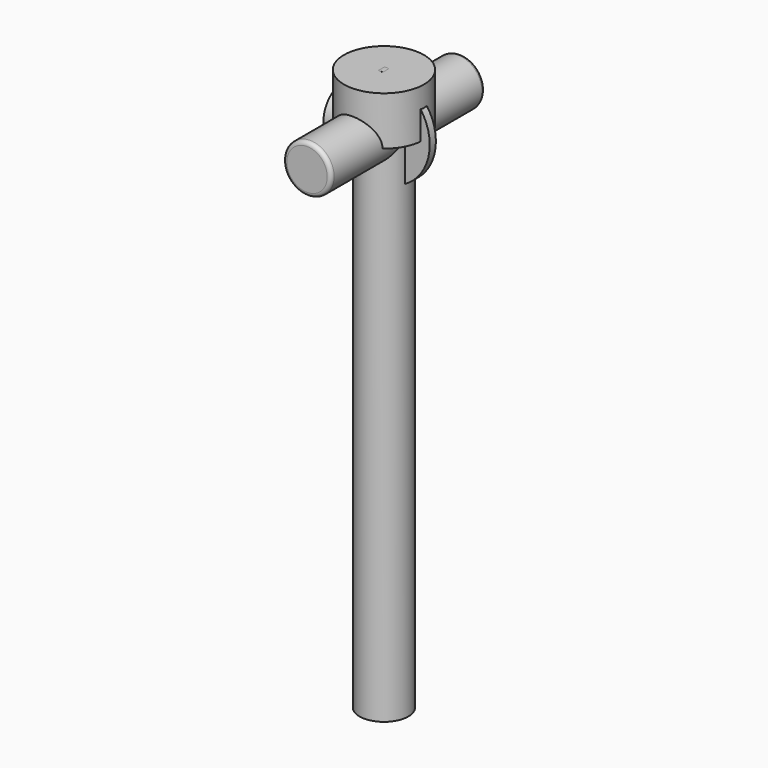
from build123d import *

# Parameters (mm, degrees)
F0_R          = 4.8387
F0_R_2        = 2.413
F1_DEPTH      = 0.381
F1_DEPTH_BACK = 0.381
F2_R          = 2.38125
F3_DEPTH      = 9.525
F3_DEPTH_BACK = 9.525
F4_R          = 0.381


with BuildPart() as f1:
    # F0 (on Front) → F1 (new body, two sides)
    with BuildSketch(Plane.XZ) as f1_sk:
        Circle(F0_R)
        Circle(F0_R_2, mode=Mode.SUBTRACT)
    extrude(amount=F1_DEPTH)
    extrude(f1_sk.sketch, amount=-F1_DEPTH_BACK)


with BuildPart() as f3:
    # F2 (on Front) → F3 (new body, two sides)
    with BuildSketch(Plane.XZ) as f3_sk:
        Circle(F2_R)
    extrude(amount=F3_DEPTH)
    extrude(f3_sk.sketch, amount=-F3_DEPTH_BACK)

    # F4
    f4_edges = [f3.edges().sort_by_distance(p)[0] for p in [
        (-2.38125, -9.525, 0),
        (-2.38125, 9.525, 0),
    ]]
    fillet(f4_edges, radius=F4_R)


with BuildPart() as f6:
    # F5 (on Front) → F6 (revolve)
    with BuildSketch(Plane.XZ):
        Polygon((-4.7625, 0), (-3.09665, 0), (-2.38125, 1.190625), (0, 1.190625), (0, 2.413), (-4.065927, 2.413), (-4.7625, 1.2065), align=None)
    revolve(axis=Axis((4.242493, 0, 0), (1, 0, 0)))


with BuildPart() as f8:
    # F7 (on Right) → F8 (revolve)
    with BuildSketch(Plane.YZ):
        Polygon((3.9624, 4.826), (0, 4.826), (0, -9.525), (2.413, -9.525), (2.413, 0), (3.9624, 0), align=None)
    revolve(axis=Axis((0, 0, -2.876519), (0, 0, -1)))


with BuildPart() as f10:
    # F9 (on Right) → F10 (revolve)
    with BuildSketch(Plane.YZ):
        Polygon((3.9624, 4.826), (0, 4.826), (0, -31.75), (2.413, -31.75), (2.413, 0), (3.9624, 0), align=None)
    revolve(axis=Axis((0, 0, -2.336647), (0, 0, -1)))


with BuildPart() as f12:
    # F11 (on Right) → F12 (revolve)
    with BuildSketch(Plane.YZ):
        Polygon((3.9624, 4.826), (0, 4.826), (0, -50.8), (2.413, -50.8), (2.413, 0), (3.9624, 0), align=None)
    revolve(axis=Axis((0, 0, -13.152602), (0, 0, -1)))


solid = Compound([f1.part, f3.part, f6.part, f8.part, f10.part, f12.part])
